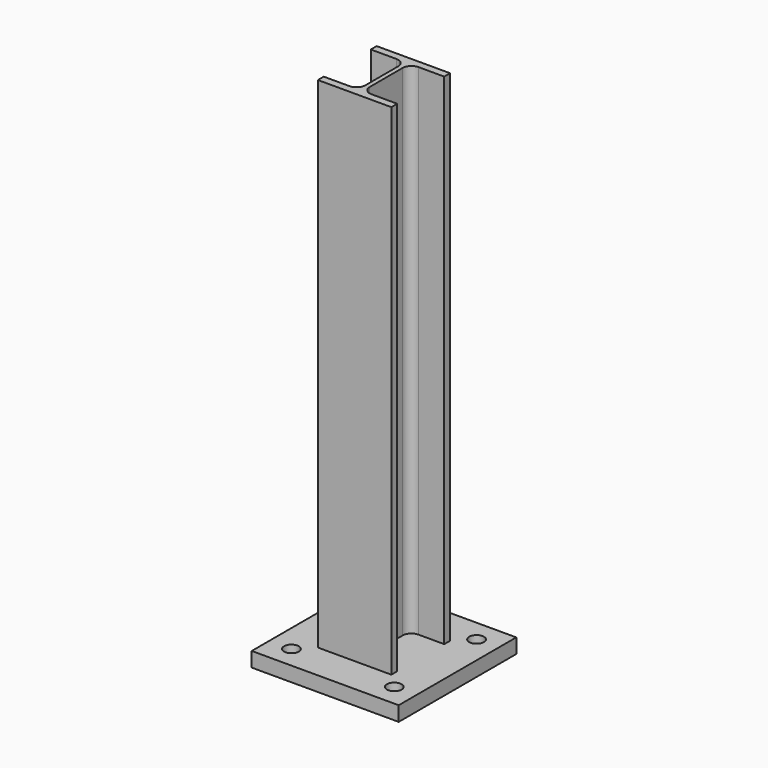
from build123d import *

# Parameters (mm, degrees)
PAD_DEPTH          = 70
SKETCH002_W        = 20
SKETCH002_H        = 20
PAD001_DEPTH       = 2
SKETCH003_R        = 1
POCKET_DEPTH       = 5
POLARPATTERN_COUNT = 4


with BuildPart() as pad:
    # Sketch001 → Pad (new body)
    with BuildSketch(Plane.XY):
        with BuildLine():
            Line((-5, 4), (-5, 5))
            Line((-5, 5), (5, 5))
            Line((5, 5), (5, 4))
            Line((5, 4), (1.5, 4))
            ThreePointArc((1.5, 4), (0.651472, 3.648528), (0.3, 2.8))
            Line((0.3, 2.8), (0.3, -2.8))
            ThreePointArc((0.3, -2.8), (0.651472, -3.648528), (1.5, -4))
            Line((1.5, -4), (5, -4))
            Line((5, -4), (5, -5))
            Line((5, -5), (-5, -5))
            Line((-5, -5), (-5, -4))
            Line((-5, -4), (-1.5, -4))
            ThreePointArc((-1.5, -4), (-0.651472, -3.648528), (-0.3, -2.8))
            Line((-0.3, -2.8), (-0.3, 2.8))
            ThreePointArc((-0.3, 2.8), (-0.651472, 3.648528), (-1.5, 4))
            Line((-1.5, 4), (-5, 4))
        make_face()
    extrude(amount=PAD_DEPTH)


with BuildPart() as fusion:
    # Sketch002 → Pad001 (new body)
    with BuildSketch(Plane.XY):
        Rectangle(SKETCH002_W, SKETCH002_H)
    extrude(amount=PAD001_DEPTH)

    # Sketch003 → Pocket (cut)
    with BuildSketch(Plane.XY.offset(2)):
        with Locations((-7, 7)):
            Circle(SKETCH003_R)
    pocket = extrude(amount=-POCKET_DEPTH, mode=Mode.SUBTRACT)

    # PolarPattern: Pocket ×4 about axis
    polarpattern_axis = Axis((0, 0, 2), (0, 0, 1))
    for i in range(1, POLARPATTERN_COUNT):
        add(pocket.rotate(polarpattern_axis, i * 360 / POLARPATTERN_COUNT), mode=Mode.SUBTRACT)

    # Fusion: union Pad
    add(pad.part)


solid = fusion.part
